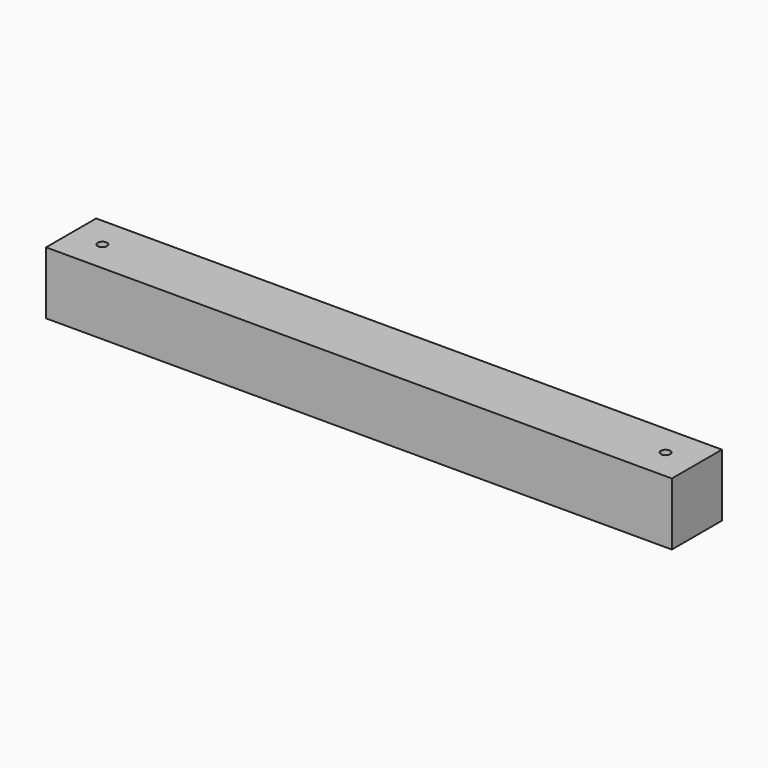
from build123d import *

# Parameters (mm, degrees)
F0_W     = 400
F0_H     = 40
F0_R     = 3
F1_DEPTH = 40
F2_R     = 3
F4_DEPTH = 20
F3_R     = 3
F5_DEPTH = 20


with BuildPart() as f1:
    # F0 (on Top) → F1 (new body)
    with BuildSketch(Plane.XY):
        with Locations((200, 20)):
            Rectangle(F0_W, F0_H)
        with Locations((20, 20)):
            Circle(F0_R, mode=Mode.SUBTRACT)
        with Locations((380, 20)):
            Circle(F0_R, mode=Mode.SUBTRACT)
    extrude(amount=F1_DEPTH)

    # F2 (on face) → F4 (cut)
    with BuildSketch(Plane(origin=(0, 40, 0), x_dir=(-1, 0, 0), z_dir=(0, 1, 0))):
        with Locations((-120, 20)):
            Circle(F2_R)
    extrude(amount=-F4_DEPTH, mode=Mode.SUBTRACT)

    # F3 (on face) → F5 (cut)
    with BuildSketch(Plane(origin=(0, 40, 0), x_dir=(-1, 0, 0), z_dir=(0, 1, 0))):
        with Locations((-280, 20)):
            Circle(F3_R)
    extrude(amount=-F5_DEPTH, mode=Mode.SUBTRACT)


solid = f1.part
